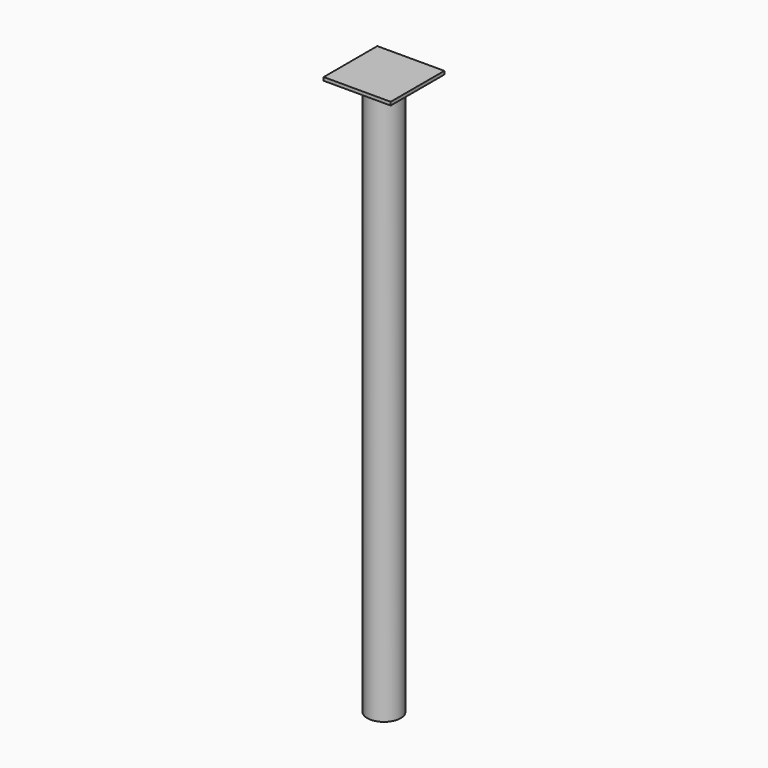
from build123d import *

# Parameters (mm, degrees)
F0_R     = 15
F1_DEPTH = 500
F2_W     = 60
F2_H     = 60
F2_R     = 15
F3_DEPTH = 3


with BuildPart() as f1:
    # F0 (on Top) → F1 (new body)
    with BuildSketch(Plane.XY):
        Circle(F0_R)
    extrude(amount=F1_DEPTH)

    # F2 (on face) → F3 (join)
    with BuildSketch(Plane.XY.offset(500)):
        Rectangle(F2_W, F2_H)
        Circle(F2_R, mode=Mode.SUBTRACT)
        Rectangle(F2_W, F2_H)
    extrude(amount=F3_DEPTH)


solid = f1.part
